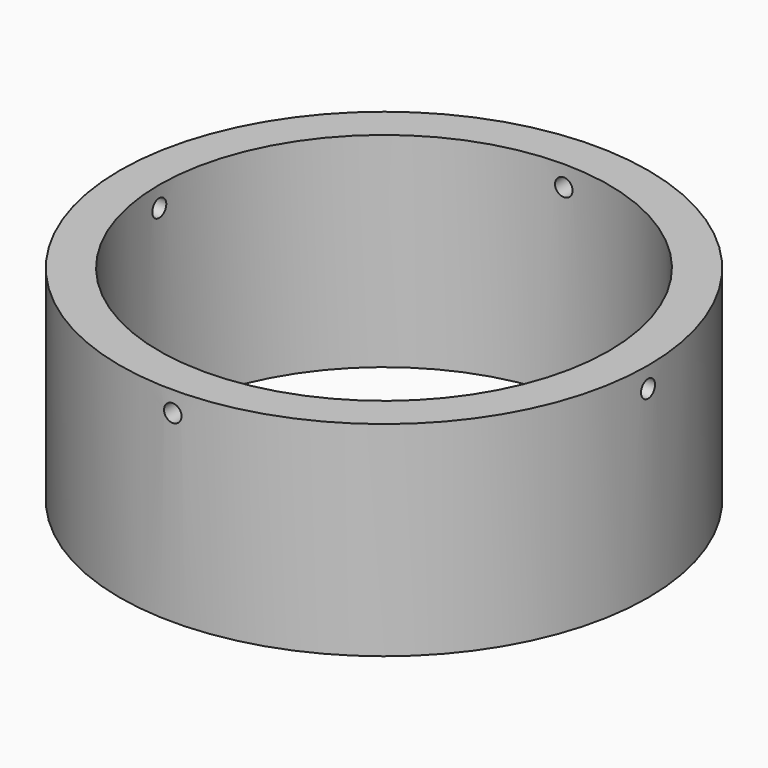
from build123d import *

# Parameters (mm, degrees)
F0_R     = 41.021
F1_DEPTH = 31.75
F2_R     = 34.925
F3_DEPTH = 31.751
F4_R     = 1.3589
F5_DEPTH = 44.45
F6_R     = 1.3589
F7_DEPTH = 44.45


with BuildPart() as f1:
    # F0 (on Top) → F1 (new body)
    with BuildSketch(Plane.XY):
        Circle(F0_R)
    extrude(amount=F1_DEPTH)

    # F2 (on face) → F3 (cut, through all)
    with BuildSketch(Plane.XY.offset(31.75)):
        Circle(F2_R)
    extrude(amount=-F3_DEPTH, mode=Mode.SUBTRACT)

    # F4 (on Front) → F5 (cut, symmetric)
    with BuildSketch(Plane.XZ):
        with Locations((0, 28.575)):
            Circle(F4_R)
    extrude(amount=F5_DEPTH, both=True, mode=Mode.SUBTRACT)

    # F6 (on Right) → F7 (cut, symmetric)
    with BuildSketch(Plane.YZ):
        with Locations((0, 28.575)):
            Circle(F6_R)
    extrude(amount=F7_DEPTH, both=True, mode=Mode.SUBTRACT)


solid = f1.part
